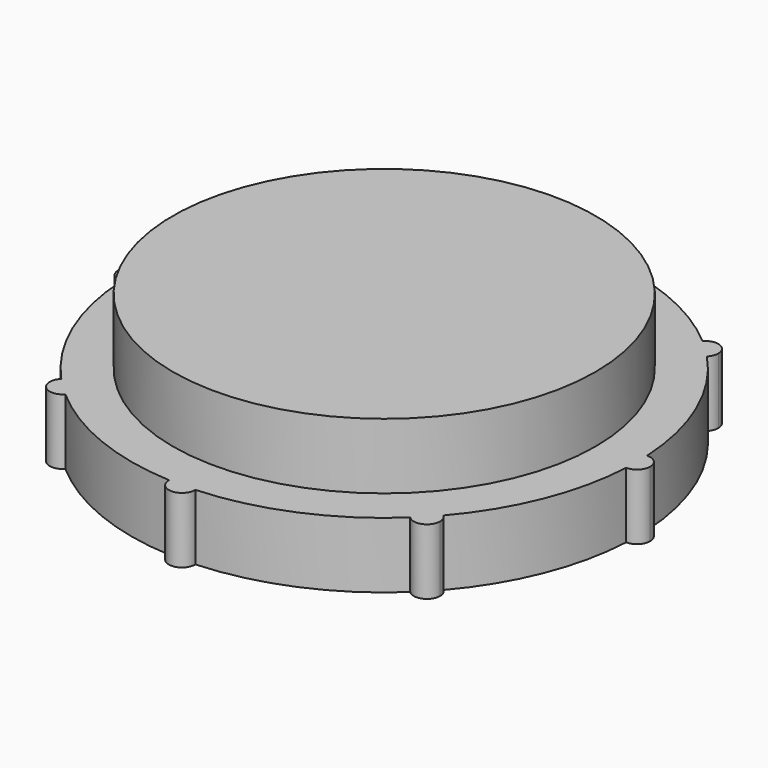
from build123d import *

# Parameters (mm, degrees)
F1_DEPTH = 5
F2_R     = 16.0925
F3_DEPTH = 5


with BuildPart() as f1:
    # F0 (on Top) → F1 (new body)
    with BuildSketch(Plane.XY):
        with BuildLine():
            ThreePointArc((19.224025974, -0.9996626181), (19.2435053979, -0.5), (19.25, 0))
            ThreePointArc((19.25, 0), (19.2435053979, 0.5), (19.224025974, 0.9996626181))
            ThreePointArc((19.224025974, 0.9996626181), (18.25, 0), (19.224025974, -0.9996626181))
        make_face()
        with BuildLine():
            ThreePointArc((19.224025974, 0.9996626181), (19.2435053979, 0.5), (19.25, 0))
            ThreePointArc((19.25, 0), (19.2435053979, -0.5), (19.224025974, -0.9996626181))
            ThreePointArc((19.224025974, -0.9996626181), (19.9478631578, -0.716231117), (20.25, 0))
            ThreePointArc((20.25, 0), (19.9478631578, 0.716231117), (19.224025974, 0.9996626181))
        make_face()
        with BuildLine():
            ThreePointArc((19.224025974, -0.9996626181), (18.25, 0), (19.224025974, 0.9996626181))
            ThreePointArc((19.224025974, 0.9996626181), (17.7038739711, 7.558792656), (14.0179049045, 13.1932119702))
            ThreePointArc((14.0179049045, 13.1932119702), (12.6222310158, 13.1811146792), (12.5738865363, 14.5760034774))
            ThreePointArc((12.5738865363, 14.5760034774), (7.1736557935, 17.8634028829), (0.9996626181, 19.224025974))
            ThreePointArc((0.9996626181, 19.224025974), (0, 18.25), (-0.9996626181, 19.224025974))
            ThreePointArc((-0.9996626181, 19.224025974), (-7.4690346519, 17.7419283442), (-13.0505499689, 14.1508178388))
            ThreePointArc((-13.0505499689, 14.1508178388), (-12.8411799857, 13.8300006906), (-12.7678002695, 13.4540022202))
            ThreePointArc((-12.7678002695, 13.4540022202), (-13.3678605948, 12.5374607554), (-14.4478967828, 12.7208796298))
            ThreePointArc((-14.4478967828, 12.7208796298), (-17.8268428947, 7.2640327922), (-19.224025974, 0.9996626181))
            ThreePointArc((-19.224025974, 0.9996626181), (-18.533768883, 0.6978631578), (-18.25, 0))
            ThreePointArc((-18.25, 0), (-18.533768883, -0.6978631578), (-19.224025974, -0.9996626181))
            ThreePointArc((-19.224025974, -0.9996626181), (-17.7419283442, -7.4690346519), (-14.1508178388, -13.0505499689))
            ThreePointArc((-14.1508178388, -13.0505499689), (-13.0646538021, -12.8467097151), (-12.4540022202, -13.7678002695))
            ThreePointArc((-12.4540022202, -13.7678002695), (-12.5231094792, -14.1330928984), (-12.7208796298, -14.4478967828))
            ThreePointArc((-12.7208796298, -14.4478967828), (-7.2640327922, -17.8268428947), (-0.9996626181, -19.224025974))
            ThreePointArc((-0.9996626181, -19.224025974), (0, -18.25), (0.9996626181, -19.224025974))
            ThreePointArc((0.9996626181, -19.224025974), (7.558792656, -17.7038739711), (13.1932119702, -14.0179049045))
            ThreePointArc((13.1932119702, -14.0179049045), (13.1811146792, -12.6222310158), (14.5760034774, -12.5738865363))
            ThreePointArc((14.5760034774, -12.5738865363), (17.8634028829, -7.1736557935), (19.224025974, -0.9996626181))
        make_face()
        with BuildLine():
            ThreePointArc((12.5738865363, 14.5760034774), (12.6222310158, 13.1811146792), (14.0179049045, 13.1932119702))
            ThreePointArc((14.0179049045, 13.1932119702), (13.3138601125, 13.9033675383), (12.5738865363, 14.5760034774))
        make_face()
        with BuildLine():
            ThreePointArc((12.5738865363, 14.5760034774), (13.3138601125, 13.9033675383), (14.0179049045, 13.1932119702))
            ThreePointArc((14.0179049045, 13.1932119702), (14.2369107048, 13.5186889659), (14.3138601125, 13.9033675383))
            ThreePointArc((14.3138601125, 13.9033675383), (13.6744335612, 14.8360983612), (12.5738865363, 14.5760034774))
        make_face()
        with BuildLine():
            ThreePointArc((14.9033675383, -13.3138601125), (14.8178717589, -12.9092837533), (14.5760034774, -12.5738865363))
            ThreePointArc((14.5760034774, -12.5738865363), (13.9033675383, -13.3138601125), (13.1932119702, -14.0179049045))
            ThreePointArc((13.1932119702, -14.0179049045), (14.2840540444, -14.2385642728), (14.9033675383, -13.3138601125))
        make_face()
        with BuildLine():
            ThreePointArc((13.1932119702, -14.0179049045), (13.9033675383, -13.3138601125), (14.5760034774, -12.5738865363))
            ThreePointArc((14.5760034774, -12.5738865363), (13.1811146792, -12.6222310158), (13.1932119702, -14.0179049045))
        make_face()
        with BuildLine():
            ThreePointArc((-0.9996626181, 19.224025974), (0, 18.25), (0.9996626181, 19.224025974))
            ThreePointArc((0.9996626181, 19.224025974), (0, 19.25), (-0.9996626181, 19.224025974))
        make_face()
        with BuildLine():
            ThreePointArc((-0.9996626181, 19.224025974), (0, 19.25), (0.9996626181, 19.224025974))
            ThreePointArc((0.9996626181, 19.224025974), (0.999915651, 19.2370118915), (1, 19.25))
            ThreePointArc((1, 19.25), (-0.0129881085, 20.249915651), (-0.9996626181, 19.224025974))
        make_face()
        with BuildLine():
            ThreePointArc((1, -19.25), (0.999915651, -19.2370118915), (0.9996626181, -19.224025974))
            ThreePointArc((0.9996626181, -19.224025974), (0, -19.25), (-0.9996626181, -19.224025974))
            ThreePointArc((-0.9996626181, -19.224025974), (-0.0129881085, -20.249915651), (1, -19.25))
        make_face()
        with BuildLine():
            ThreePointArc((-0.9996626181, -19.224025974), (0, -19.25), (0.9996626181, -19.224025974))
            ThreePointArc((0.9996626181, -19.224025974), (0, -18.25), (-0.9996626181, -19.224025974))
        make_face()
        with BuildLine():
            ThreePointArc((-12.7678002695, 13.4540022202), (-12.8411799857, 13.8300006906), (-13.0505499689, 14.1508178388))
            ThreePointArc((-13.0505499689, 14.1508178388), (-13.7678002695, 13.4540022202), (-14.4478967828, 12.7208796298))
            ThreePointArc((-14.4478967828, 12.7208796298), (-13.3678605948, 12.5374607554), (-12.7678002695, 13.4540022202))
        make_face()
        with BuildLine():
            ThreePointArc((-14.4478967828, 12.7208796298), (-13.7678002695, 13.4540022202), (-13.0505499689, 14.1508178388))
            ThreePointArc((-13.0505499689, 14.1508178388), (-14.4830106731, 14.1529114264), (-14.4478967828, 12.7208796298))
        make_face()
        with BuildLine():
            ThreePointArc((-14.1508178388, -13.0505499689), (-14.1529114264, -14.4830106731), (-12.7208796298, -14.4478967828))
            ThreePointArc((-12.7208796298, -14.4478967828), (-13.4540022202, -13.7678002695), (-14.1508178388, -13.0505499689))
        make_face()
        with BuildLine():
            ThreePointArc((-14.1508178388, -13.0505499689), (-13.4540022202, -13.7678002695), (-12.7208796298, -14.4478967828))
            ThreePointArc((-12.7208796298, -14.4478967828), (-12.5231094792, -14.1330928984), (-12.4540022202, -13.7678002695))
            ThreePointArc((-12.4540022202, -13.7678002695), (-13.0646538021, -12.8467097151), (-14.1508178388, -13.0505499689))
        make_face()
        with BuildLine():
            ThreePointArc((-18.25, 0), (-18.533768883, 0.6978631578), (-19.224025974, 0.9996626181))
            ThreePointArc((-19.224025974, 0.9996626181), (-19.25, 0), (-19.224025974, -0.9996626181))
            ThreePointArc((-19.224025974, -0.9996626181), (-18.533768883, -0.6978631578), (-18.25, 0))
        make_face()
        with BuildLine():
            ThreePointArc((-19.224025974, -0.9996626181), (-19.25, 0), (-19.224025974, 0.9996626181))
            ThreePointArc((-19.224025974, 0.9996626181), (-20.25, 0), (-19.224025974, -0.9996626181))
        make_face()
    extrude(amount=F1_DEPTH)

    # F2 (on face) → F3 (join)
    with BuildSketch(Plane.XY.offset(5)):
        Circle(F2_R)
    extrude(amount=F3_DEPTH)


solid = f1.part
